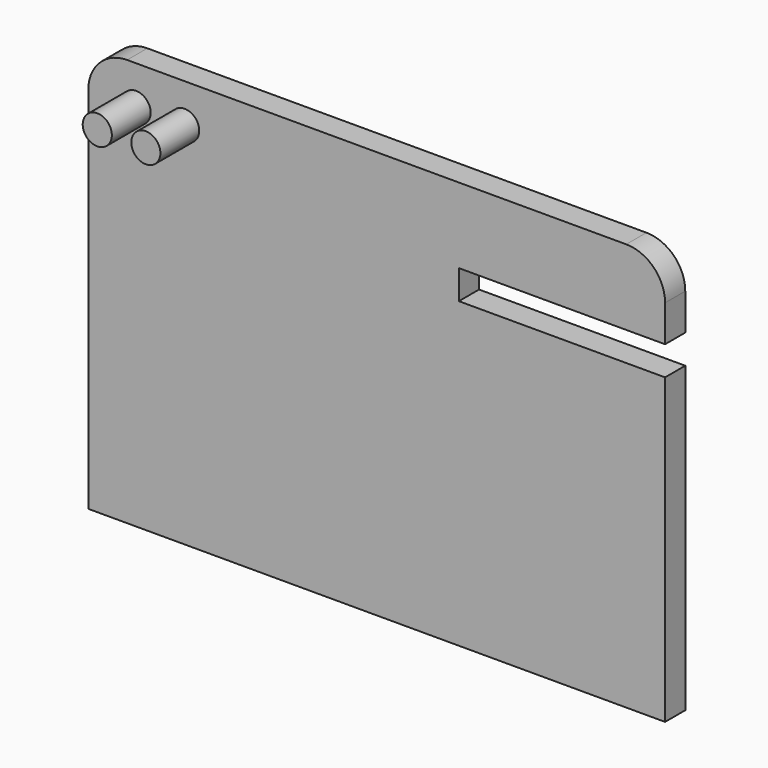
from build123d import *

# Parameters (mm, degrees)
F1_DEPTH = 13
F2_W     = 110
F2_H     = 15
F3_DEPTH = 25
F4_R     = 7.5
F5_DEPTH = 25


with BuildPart() as f1:
    # F0 (on Front) → F1 (new body)
    with BuildSketch(Plane.XZ):
        with BuildLine():
            Line((136.328066, 118.956802), (-120.671934, 118.956802))
            ThreePointArc((-120.671934, 118.956802), (-134.814069, 113.098938), (-140.671934, 98.956802))
            Line((-140.671934, 98.956802), (-140.671934, -91.043198))
            Line((-140.671934, -91.043198), (156.328066, -91.043198))
            Line((156.328066, -91.043198), (156.328066, 98.956802))
            ThreePointArc((156.328066, 98.956802), (150.470202, 113.098938), (136.328066, 118.956802))
        make_face()
    extrude(amount=F1_DEPTH)

    # F2 (on face) → F3 (cut)
    with BuildSketch(Plane.XZ.offset(13)):
        with Locations((105.148206, 72.65589)):
            Rectangle(F2_W, F2_H)
    extrude(amount=-F3_DEPTH, mode=Mode.SUBTRACT)

    # F4 (on face) → F5 (join)
    with BuildSketch(Plane.XZ.offset(13)):
        with Locations((-116.048563, 98.956802)):
            Circle(F4_R)
        with Locations((-91.048563, 98.956802)):
            Circle(F4_R)
    extrude(amount=F5_DEPTH)


solid = f1.part
